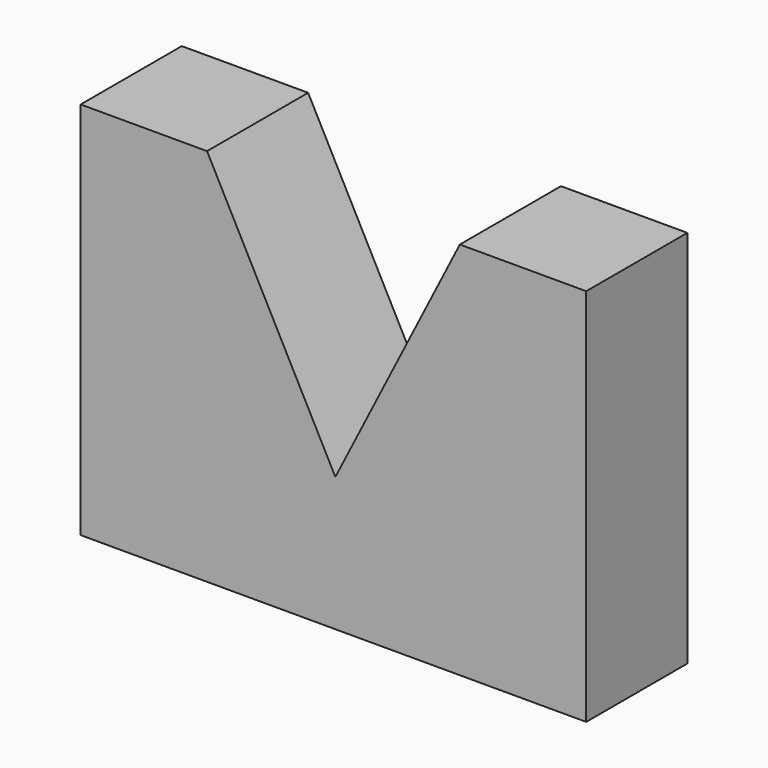
from build123d import *

# Parameters (mm, degrees)
F1_DEPTH = 25.4


with BuildPart() as f1:
    # F0 (on Front) → F1 (new body)
    with BuildSketch(Plane.XZ):
        Polygon((-51.184848, 32.904538), (-51.184848, -43.295462), (50.415152, -43.295462), (50.415152, 32.904538), (25.015152, 32.904538), (0, -16.356061), (-25.784848, 32.904538), align=None)
        Polygon((-51.184848, 32.904538), (-51.184848, -43.295462), (50.415152, -43.295462), (50.415152, 32.904538), (25.015152, 32.904538), (0, -16.356061), (-25.784848, 32.904538), align=None)
    extrude(amount=F1_DEPTH)


solid = f1.part
